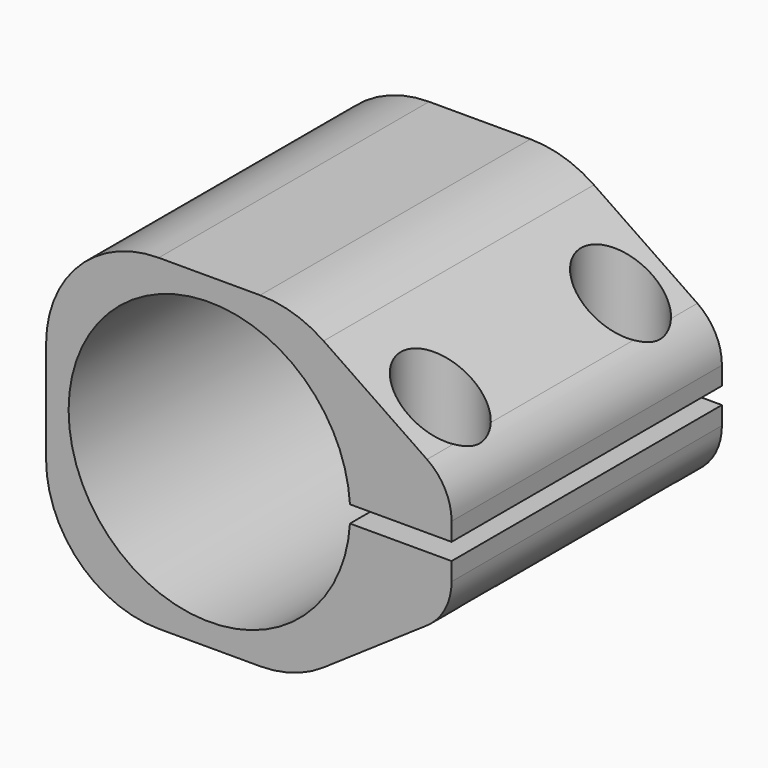
from build123d import *

# Parameters (mm, degrees)
F1_DEPTH      = 15
F2_R          = 2
F3_DEPTH      = 14.501
F3_DEPTH_BACK = 14.501
F5_R          = 5
F6_R          = 3.5
F7_DEPTH      = 11.751
F10_DEPTH     = 11.751


with BuildPart() as f1:
    # F0 (on Front) → F1 (new body, symmetric)
    with BuildSketch(Plane.XZ):
        with BuildLine():
            ThreePointArc((12.4774797135, -0.75), (-12.5, 0), (12.4774797135, 0.75))
            Line((12.4774797135, 0.75), (21.5, 0.75))
            Line((21.5, 0.75), (21.5, 5))
            Line((21.5, 5), (10.1394673035, 12.7581116808))
            ThreePointArc((10.1394673035, 12.7581116808), (7.4511763072, 14.0546092753), (4.5, 14.5))
            Line((4.5, 14.5), (-4.5, 14.5))
            ThreePointArc((-4.5, 14.5), (-11.5710678119, 11.5710678119), (-14.5, 4.5))
            Line((-14.5, 4.5), (-14.5, -4.5))
            ThreePointArc((-14.5, -4.5), (-11.5710678119, -11.5710678119), (-4.5, -14.5))
            Line((-4.5, -14.5), (4.5, -14.5))
            ThreePointArc((4.5, -14.5), (7.4511763072, -14.0546092753), (10.1394673035, -12.7581116808))
            Line((10.1394673035, -12.7581116808), (21.5, -5))
            Line((21.5, -5), (21.5, -0.75))
            Line((21.5, -0.75), (12.4774797135, -0.75))
        make_face()
        with BuildLine():
            ThreePointArc((12.4774797135, -0.75), (-12.5, 0), (12.4774797135, 0.75))
            Line((12.4774797135, 0.75), (21.5, 0.75))
            Line((21.5, 0.75), (21.5, 5))
            Line((21.5, 5), (10.1394673035, 12.7581116808))
            ThreePointArc((10.1394673035, 12.7581116808), (7.4511763072, 14.0546092753), (4.5, 14.5))
            Line((4.5, 14.5), (-4.5, 14.5))
            ThreePointArc((-4.5, 14.5), (-11.5710678119, 11.5710678119), (-14.5, 4.5))
            Line((-14.5, 4.5), (-14.5, -4.5))
            ThreePointArc((-14.5, -4.5), (-11.5710678119, -11.5710678119), (-4.5, -14.5))
            Line((-4.5, -14.5), (4.5, -14.5))
            ThreePointArc((4.5, -14.5), (7.4511763072, -14.0546092753), (10.1394673035, -12.7581116808))
            Line((10.1394673035, -12.7581116808), (21.5, -5))
            Line((21.5, -5), (21.5, -0.75))
            Line((21.5, -0.75), (12.4774797135, -0.75))
        make_face()
    extrude(amount=F1_DEPTH, both=True)

    # F2 (on Top) → F3 (cut, two sides)
    with BuildSketch(Plane.XY) as f3_sk:
        with Locations((16.5, 10)):
            Circle(F2_R)
        with Locations((16.5, -10)):
            Circle(F2_R)
    extrude(amount=-F3_DEPTH, mode=Mode.SUBTRACT)
    extrude(f3_sk.sketch, amount=F3_DEPTH_BACK, mode=Mode.SUBTRACT)

    # F5
    f5_edges = [f1.edges().sort_by_distance(p)[0] for p in [
        (21.5, 0, 5),
        (21.5, 0, -5),
    ]]
    fillet(f5_edges, radius=F5_R)

    # F6 (on offset) → F7 (cut, through all)
    with BuildSketch(Plane(origin=(0, 0, 2.75), x_dir=(1, 0, 0), z_dir=(0, 0, -1))):
        with Locations((16.5, 10)):
            Circle(F6_R)
        with Locations((16.5, -10)):
            Circle(F6_R)
    extrude(amount=-F7_DEPTH, mode=Mode.SUBTRACT)

    # F9 (on offset) → F10 (cut, through all)
    with BuildSketch(Plane.XY.offset(-2.75)):
        Polygon((20, 7.9792740578), (20, 12.0207259422), (16.5, 14.0414518843), (13, 12.0207259422), (13, 7.9792740578), (16.5, 5.9585481157), align=None)
        Polygon((20, -12.0207259422), (20, -7.9792740578), (16.5, -5.9585481157), (13, -7.9792740578), (13, -12.0207259422), (16.5, -14.0414518843), align=None)
    extrude(amount=-F10_DEPTH, mode=Mode.SUBTRACT)


solid = f1.part
